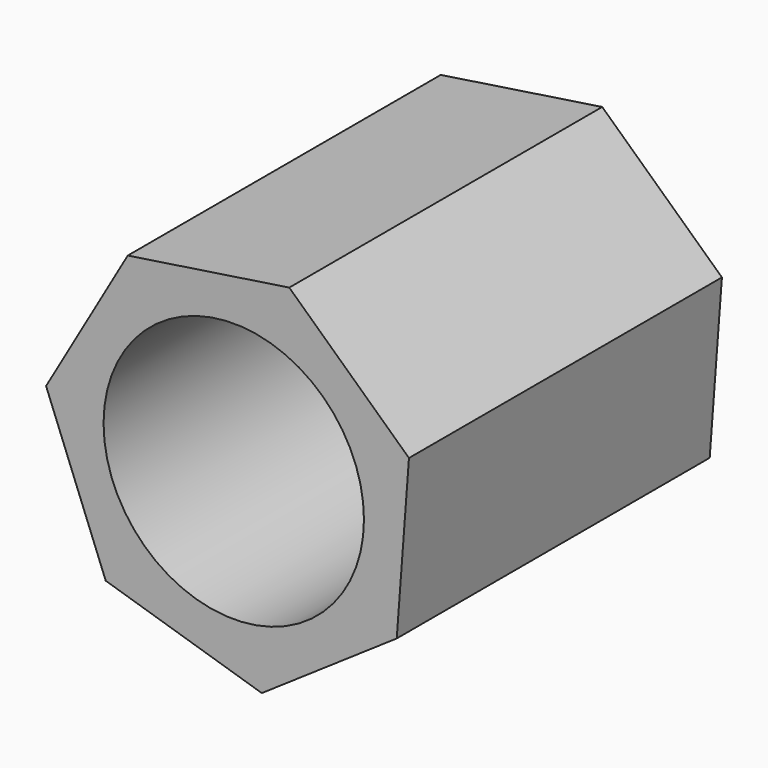
from build123d import *

# Parameters (mm, degrees)
F0_R     = 43.957612
F1_DEPTH = 132.08


with BuildPart() as f1:
    # F0 (on Front) → F1 (new body)
    with BuildSketch(Plane.XZ):
        Polygon((-35.785236, 52.508596), (-63.364603, 4.76055), (-43.229131, -46.572287), (9.458758, -62.835242), (55.024009, -31.781978), (59.155059, 23.203763), (18.741144, 60.716598), align=None)
        Circle(F0_R, mode=Mode.SUBTRACT)
    extrude(amount=F1_DEPTH)


solid = f1.part
